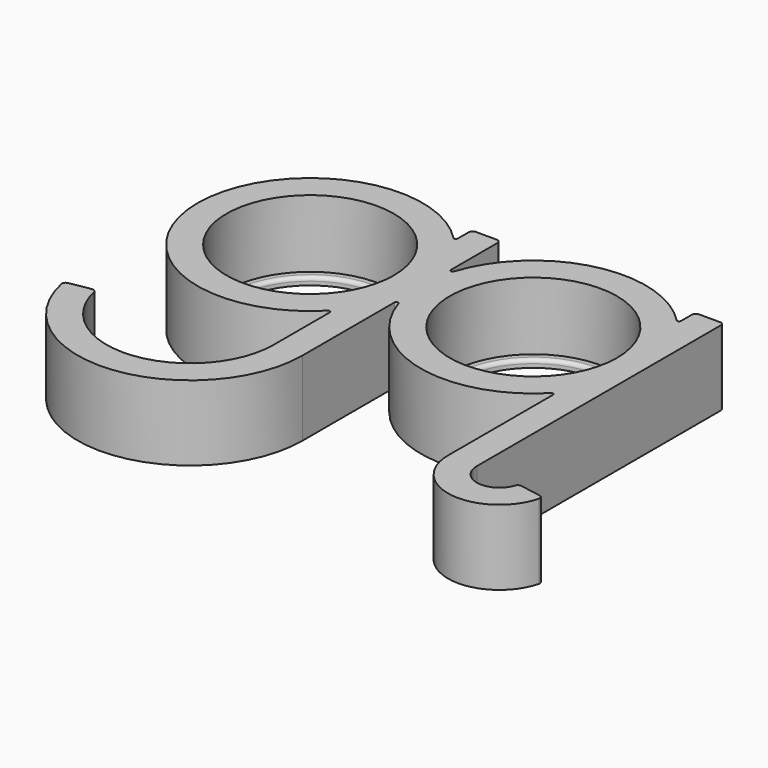
from build123d import *

# Parameters (mm, degrees)
F0_R     = 11.15
F1_DEPTH = 10
F2_R     = 11.5
F2_R_2   = 10
F3_DEPTH = 1
F4_R     = 0.5
F5_R     = 0.25
F6_R     = 0.5


with BuildPart() as f1:
    # F0 (on Top) → F1 (new body)
    with BuildSketch(Plane.XY):
        with BuildLine():
            ThreePointArc((14.875, 1.9324531042), (13.6283962301, 6.2663239778), (11.15, 10.0338178178))
            ThreePointArc((11.15, 10.0338178178), (-15, 0), (11.15, -10.0338178178))
            Line((11.15, -10.0338178178), (11.15, -20))
            ThreePointArc((11.15, -20), (0.9717865316, -31.1075708837), (-10.9806064461, -21.936177181))
            Line((-10.9806064461, -21.936177181), (-14.7721162952, -22.604722665))
            ThreePointArc((-14.7721162952, -22.604722665), (1.3073361412, -34.9429204714), (15, -20))
            Line((15, -20), (15, -2.7271780287))
            ThreePointArc((15, -2.7271780287), (14.7553944092, -0.4022476555), (14.875, 1.9324531042))
        make_face()
        Circle(F0_R, mode=Mode.SUBTRACT)
        with BuildLine():
            ThreePointArc((15, 2.7271780287), (14.9321711045, 2.3306537331), (14.875, 1.9324531042))
            ThreePointArc((14.875, 1.9324531042), (14.9687173799, 0.9682458366), (15, 0))
            Line((15, 0), (15, 2.7271780287))
        make_face()
        with BuildLine():
            Line((11.15, 13), (11.15, 10.0338178178))
            ThreePointArc((11.15, 10.0338178178), (13.6283962301, 6.2663239778), (14.875, 1.9324531042))
            ThreePointArc((14.875, 1.9324531042), (14.9321711045, 2.3306537331), (15, 2.7271780287))
            Line((15, 2.7271780287), (15, 13))
            Line((15, 13), (11.15, 13))
        make_face()
        with BuildLine():
            Line((11.15, 13), (11.15, 10.0338178178))
            ThreePointArc((11.15, 10.0338178178), (13.6283962301, 6.2663239778), (14.875, 1.9324531042))
            ThreePointArc((14.875, 1.9324531042), (14.9321711045, 2.3306537331), (15, 2.7271780287))
            Line((15, 2.7271780287), (15, 13))
            Line((15, 13), (11.15, 13))
        make_face()
        with BuildLine():
            Line((15, 2.7271780287), (15, 0))
            Line((15, 0), (15, -2.7271780287))
            ThreePointArc((15, -2.7271780287), (25.6773170696, -14.4365249887), (40.9, -10.0338178178))
            Line((40.9, -10.0338178178), (40.9, 0))
            Line((40.9, 0), (40.9, 10.0338178178))
            ThreePointArc((40.9, 10.0338178178), (25.6773170696, 14.4365249887), (15, 2.7271780287))
        make_face()
        with Locations((29.75, 0)):
            Circle(F0_R, mode=Mode.SUBTRACT)
        with BuildLine():
            ThreePointArc((15, 0), (14.9687173799, 0.9682458366), (14.875, 1.9324531042))
            ThreePointArc((14.875, 1.9324531042), (14.7553944092, -0.4022476555), (15, -2.7271780287))
            Line((15, -2.7271780287), (15, 0))
        make_face()
        with BuildLine():
            ThreePointArc((44.75, 0), (43.7544635742, 5.3735463151), (40.9, 10.0338178178))
            Line((40.9, 10.0338178178), (40.9, 0))
            Line((40.9, 0), (40.9, -10.0338178178))
            ThreePointArc((40.9, -10.0338178178), (43.7544635742, -5.3735463151), (44.75, 0))
        make_face()
        with BuildLine():
            Line((40.9, 13), (40.9, 10.0338178178))
            ThreePointArc((40.9, 10.0338178178), (43.7544635742, 5.3735463151), (44.75, 0))
            Line((44.75, 0), (44.75, 13))
            Line((44.75, 13), (40.9, 13))
        make_face()
        with BuildLine():
            ThreePointArc((44.75, 0), (43.7544635742, -5.3735463151), (40.9, -10.0338178178))
            Line((40.9, -10.0338178178), (40.9, -28.15))
            Line((40.9, -28.15), (44.75, -28.15))
            Line((44.75, -28.15), (44.75, 0))
        make_face()
        with BuildLine():
            Line((44.75, -28.15), (40.9, -28.15))
            ThreePointArc((40.9, -28.15), (47.1529831622, -34.9739336819), (54.4959331081, -29.339490017))
            Line((54.4959331081, -29.339490017), (50.704423259, -28.670944533))
            ThreePointArc((50.704423259, -28.670944533), (47.4885327718, -31.1385840943), (44.75, -28.15))
        make_face()
    extrude(amount=F1_DEPTH)

    # F2 (on Top) → F3 (join)
    with BuildSketch(Plane.XY):
        Circle(F2_R)
        Circle(F2_R_2, mode=Mode.SUBTRACT)
        with Locations((29.75, 0)):
            Circle(F2_R)
        with Locations((29.75, 0)):
            Circle(F2_R_2, mode=Mode.SUBTRACT)
    extrude(amount=F3_DEPTH)

    # F4
    f4_edges = [f1.edges().sort_by_distance(p)[0] for p in [
        (-10, 0, 1),
        (19.75, 0, 1),
    ]]
    fillet(f4_edges, radius=F4_R)

    # F5
    f5_edges = [f1.edges().sort_by_distance(p)[0] for p in [
        (15, -2.727178, 5),
        (15, 2.727178, 5),
        (11.15, 10.033818, 5),
        (40.9, 10.033818, 5),
        (11.15, -10.033818, 5),
        (40.9, -10.033818, 5),
    ]]
    fillet(f5_edges, radius=F5_R)

    # F6
    f6_edges = [f1.edges().sort_by_distance(p)[0] for p in [
        (-10.980606, -21.936177, 5),
        (-14.772116, -22.604723, 5),
        (11.15, 13, 5),
        (15, 13, 5),
        (40.9, 13, 5),
        (44.75, 13, 5),
        (54.495933, -29.33949, 5),
        (50.704423, -28.670945, 5),
    ]]
    fillet(f6_edges, radius=F6_R)


solid = f1.part
